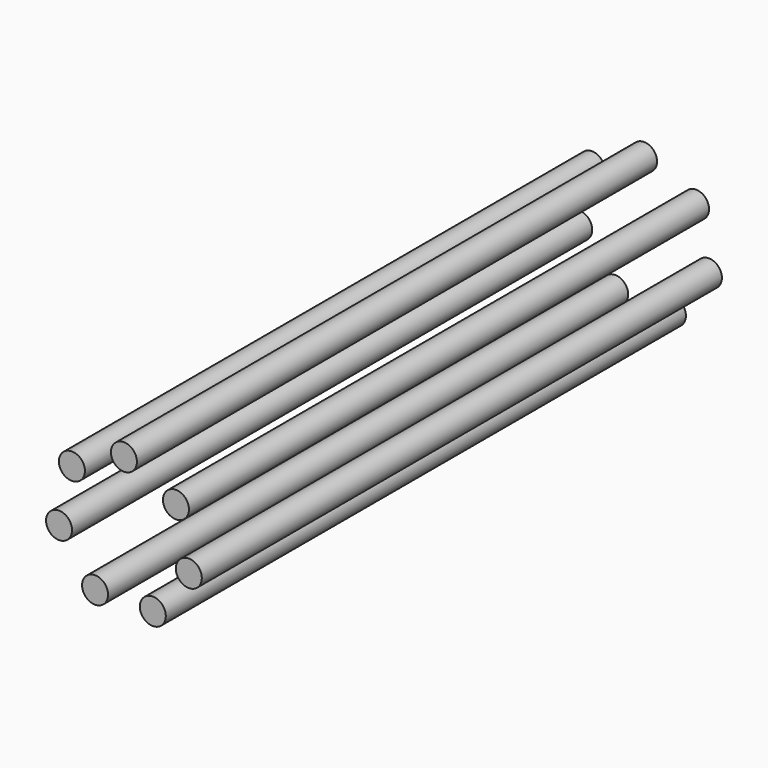
from build123d import *

# Parameters (mm, degrees)
F0_R     = 5
F1_DEPTH = 250


with BuildPart() as f1:
    # F0 (on Front) → F1 (new body)
    with BuildSketch(Plane.XZ):
        with Locations((0, 25.586935)):
            Circle(F0_R)
        with Locations((20.004672, 15.953193)):
            Circle(F0_R)
        with Locations((24.945417, -5.693629)):
            Circle(F0_R)
        with Locations((11.101755, -23.053032)):
            Circle(F0_R)
        with Locations((-11.101755, -23.053032)):
            Circle(F0_R)
        with Locations((-24.945417, -5.693629)):
            Circle(F0_R)
        with Locations((-20.004672, 15.953193)):
            Circle(F0_R)
    extrude(amount=F1_DEPTH)


solid = f1.part
